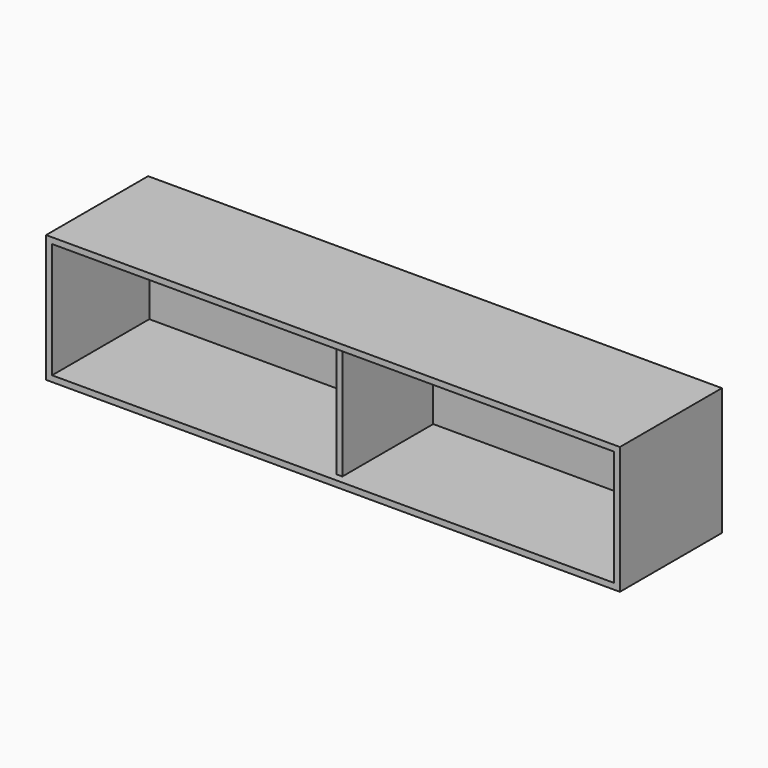
from build123d import *

# Parameters (mm, degrees)
F0_W     = 1828.8
F0_H     = 406.4
F1_DEPTH = 406.4
F2_T     = -19.05
F3_W     = 19.05
F3_H     = 387.35
F4_DEPTH = 368.3
F5_W     = 19.05
F5_H     = 368.3
F6_DEPTH = 25.4


with BuildPart() as f1:
    # F0 (on Front) → F1 (new body)
    with BuildSketch(Plane.XZ):
        Rectangle(F0_W, F0_H)
    extrude(amount=F1_DEPTH)

    # F2
    f2_openings = [f1.faces().sort_by_distance(p)[0] for p in [
        (0, -406.4, 0),
    ]]
    offset(amount=F2_T, openings=f2_openings)

    # F3 (on face) → F4 (join)
    with BuildSketch(Plane.XY.offset(-184.15)):
        with Locations((0, -212.725)):
            Rectangle(F3_W, F3_H)
    extrude(amount=F4_DEPTH)

    # F5 (on face) → F6 (cut)
    with BuildSketch(Plane.XZ.offset(406.4)):
        Rectangle(F5_W, F5_H)
    extrude(amount=-F6_DEPTH, mode=Mode.SUBTRACT)


solid = f1.part
